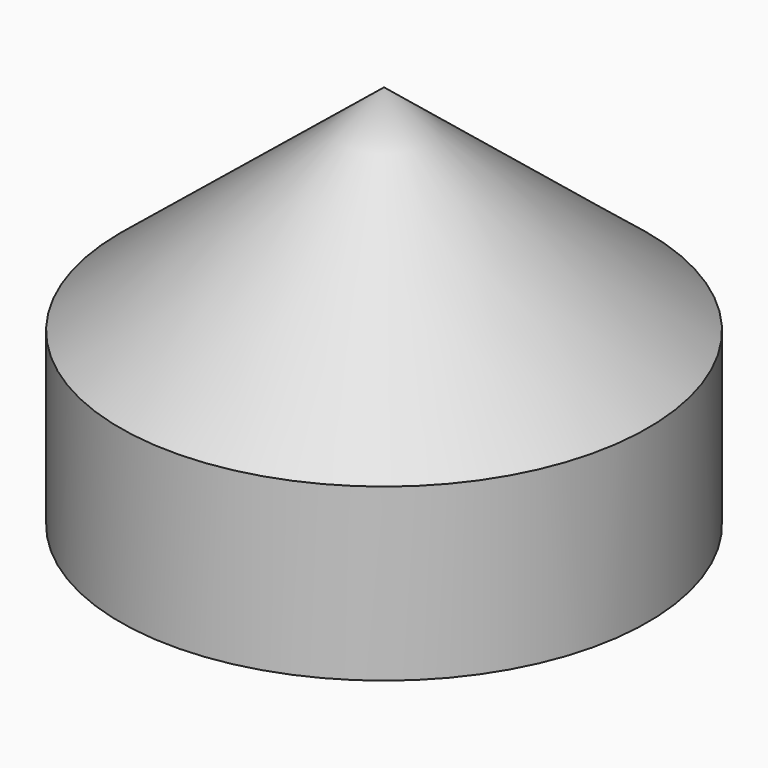
from build123d import *

# Parameters (mm, degrees)
F2_DEPTH = 50.8


with BuildPart() as f1:
    # F0 (on Front) → F1 (revolve)
    with BuildSketch(Plane.XZ):
        Polygon((78.4841775894, 0), (78.4841775894, 21.4245915413), (0, -42.2519445419), (45.4616323113, -42.2519445419), (78.4841775894, -42.2519445419), align=None)
    revolve(axis=Axis((78.4841775894, 0, -21.125972271), (0, 0, 1)))

    # F2 (add): a face of the model
    f2_faces = [f1.faces().sort_by_distance(p)[0] for p in [
        (78.4841775894, 0, -42.2519445419),
    ]]
    extrude(f2_faces, amount=F2_DEPTH)


solid = f1.part
